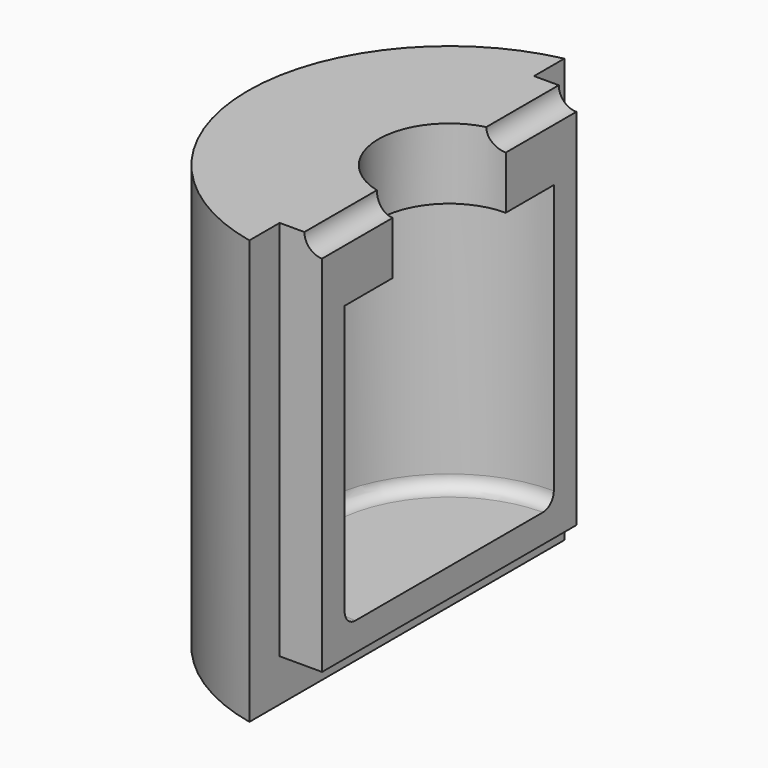
from build123d import *

# Parameters (mm, degrees)
F1_ANGLE_BACK = 90
F1_ANGLE      = 180
F2_R          = 2.5
F3_DEPTH      = 28.501
F3_DEPTH_BACK = 28.501
F4_R          = 1.905
F5_W          = 6
F5_H          = 2.5
F5_W_2        = 45
F5_H_2        = 6
F5_H_3        = 1.5
F6_DEPTH      = 6


with BuildPart() as f1:
    # F0 (on Front) → F1 (revolve)
    with BuildSketch(Plane.XZ, mode=Mode.PRIVATE) as f1_sk:
        Polygon((-18.5, 0), (0, 0), (0, 10), (-18.5, 10), (-18.5, 50), (-10, 50), (-10, 60), (-18.5, 60), (-28.5, 60), (-28.5, 0), align=None)
    revolve(f1_sk.sketch.rotate(Axis((0, 0, 5), (0, 0, 1)), -F1_ANGLE_BACK), axis=Axis((0, 0, 5), (0, 0, 1)), revolution_arc=F1_ANGLE)

    # F2 (on Front) → F3 (cut, two sides)
    with BuildSketch(Plane.XZ) as f3_sk:
        with Locations((0, 60)):
            Circle(F2_R)
    extrude(amount=-F3_DEPTH, mode=Mode.SUBTRACT)
    extrude(f3_sk.sketch, amount=F3_DEPTH_BACK, mode=Mode.SUBTRACT)

    # F4
    f4_edges = [f1.edges().sort_by_distance(p)[0] for p in [
        (-18.5, 0, 10),
    ]]
    fillet(f4_edges, radius=F4_R)

    # F5 (on face) → F6 (cut)
    with BuildSketch(Plane.YZ):
        with Locations((-25.5, 58.75)):
            Rectangle(F5_W, F5_H)
        Polygon((-22.5, 6), (-22.5, 56), (-28.5, 56), (-28.5, 0), (-22.5, 0), align=None)
        with Locations((25.5, 58.75)):
            Rectangle(F5_W, F5_H)
        Polygon((22.5, 56), (22.5, 6), (22.5, 0), (28.5, 0), (28.5, 56), align=None)
        with Locations((0, 3)):
            Rectangle(F5_W_2, F5_H_2)
        with Locations((-25.5, 58.75)):
            Rectangle(F5_W, F5_H)
        with Locations((25.5, 56.75)):
            Rectangle(F5_W, F5_H_3)
        with Locations((-25.5, 56.75)):
            Rectangle(F5_W, F5_H_3)
    extrude(amount=-F6_DEPTH, mode=Mode.SUBTRACT)


solid = f1.part
